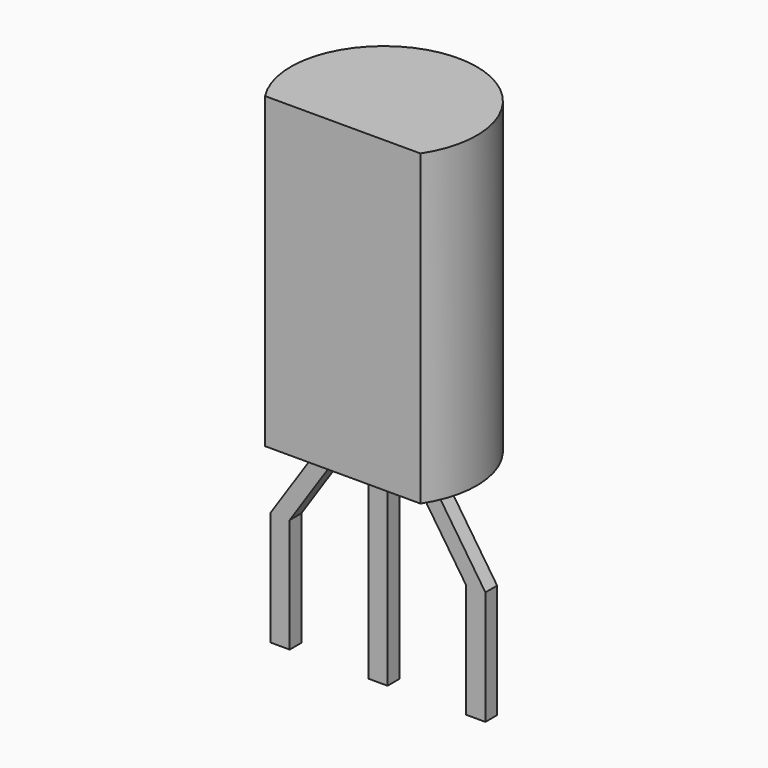
from build123d import *

# Parameters (mm, degrees)
SKETCH001_W  = 0.5
SKETCH001_H  = 5.5
PAD001_DEPTH = 0.19
PAD_DEPTH    = 8


with BuildPart() as pad001:
    # Sketch001 → Pad001 (new body, symmetric)
    with BuildSketch(Plane.XZ):
        with Locations((2.54, 0.05)):
            Rectangle(SKETCH001_W, SKETCH001_H)
        Polygon((0.25, -2.7), (-0.25, -2.7), (-0.25, 0.26), (1.02, 2.16), (1.02, 2.8), (1.52, 2.8), (1.52, 2.16), (0.25, 0.26), align=None)
        Polygon((3.56, 2.8), (4.06, 2.8), (4.06, 2.16), (5.33, 0.26), (5.33, -2.7), (4.83, -2.7), (4.83, 0.26), (3.56, 2.16), align=None)
    extrude(amount=PAD001_DEPTH, both=True)


with BuildPart() as to_92l_inline_wide:
    # Sketch → Pad (new body)
    with BuildSketch(Plane.XY.offset(2.5)):
        with BuildLine():
            Line((0.524231, -1.33), (4.555769, -1.33))
            ThreePointArc((4.555769, -1.33), (2.54, 2.415), (0.524231, -1.33))
        make_face()
    extrude(amount=PAD_DEPTH)

    add(pad001.part)


solid = to_92l_inline_wide.part
